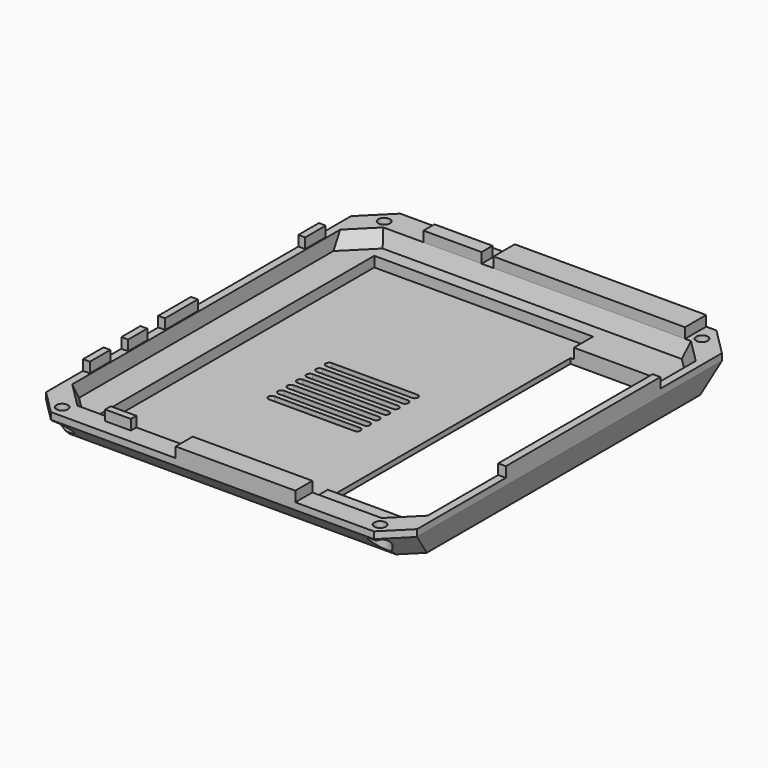
from build123d import *

# Parameters (mm, degrees)
SKETCH089_W            = 90
SKETCH089_H            = 32
EXTRUDE079_DEPTH       = 10
SKETCH082_R            = 2.9
EXTRUDE076_DEPTH       = 10
SKETCH081_R            = 1.7
EXTRUDE075_DEPTH       = 5
SKETCH083_R            = 2
EXTRUDE077_DEPTH       = 10
SKETCH084_W            = 35
SKETCH084_H            = 5
SKETCH085_W            = 38
SKETCH085_H            = 8
SKETCH086_W            = 7
SKETCH086_H            = 5
SKETCH087_W            = 10
SKETCH087_H            = 10
SKETCH080_W            = 104
SKETCH080_H            = 64
SKETCH080_W_2          = 5
SKETCH080_H_2          = 6
SKETCH080_W_3          = 9
SKETCH080_H_3          = 3
EXTRUDE074_DEPTH       = 5
SKETCH088_W            = 7.75
SKETCH088_H            = 56
SKETCH088_W_2          = 4
SKETCH088_H_2          = 17
SKETCH088_W_3          = 6.25
SKETCH088_H_3          = 35
SKETCH088_W_4          = 56.5
SKETCH088_H_4          = 2.25
SKETCH088_W_5          = 2
SKETCH088_H_5          = 7.5
SKETCH088_W_6          = 7.5
SKETCH088_H_6          = 2
SKETCH088_W_7          = 12
SKETCH088_W_8          = 7
EXTRUDE078_DEPTH       = 3
CUT004_ROLL_ANGLE      = 180
CUT004_PLACEMENT_ANGLE = -90


with BuildPart() as extrude079:
    # Sketch089 → Extrude079 (new body)
    with BuildSketch(Plane.XY):
        with Locations((0, -36)):
            Rectangle(SKETCH089_W, SKETCH089_H)
    extrude(amount=EXTRUDE079_DEPTH)


with BuildPart() as loft001:
    # Sketch078 → Loft001 section 0
    with BuildSketch(Plane.XY):
        Polygon((47.5, -52.25), (-50.5, -52.25), (-57.5, -45.25), (-57.5, 44.75), (-50.5, 51.75), (47.5, 51.75), (55, 44.25), (55, -44.75), align=None)
    # Sketch079 → Loft001 section 1
    with BuildSketch(Plane.XY.offset(4.5)):
        Polygon((45, -51.75), (-48, -51.75), (-56, -43.75), (-56, 43.75), (-48, 51.75), (45, 51.75), (53, 43.75), (53, -43.75), align=None)
    loft(ruled=True)


with BuildPart() as extrude076:
    # Sketch082 → Extrude076 (new body)
    with BuildSketch(Plane.XY):
        with Locations((-60, 46.5)):
            Circle(SKETCH082_R)
        with Locations((57.75, 46.5)):
            Circle(SKETCH082_R)
        with Locations((-60, -46.5)):
            Circle(SKETCH082_R)
        with Locations((57.75, -46.5)):
            Circle(SKETCH082_R)
    extrude(amount=EXTRUDE076_DEPTH)


with BuildPart() as extrude076_1:
    # Extrude076 placement: moved
    add(extrude076.part.moved(Location((0, 0, 2))))


with BuildPart() as fusion030:
    # Sketch081 → Extrude075 (new body)
    with BuildSketch(Plane.XY):
        with Locations((-60, 46.5)):
            Circle(SKETCH081_R)
        with Locations((57.75, 46.5)):
            Circle(SKETCH081_R)
        with Locations((-60, -46.5)):
            Circle(SKETCH081_R)
        with Locations((57.75, -46.5)):
            Circle(SKETCH081_R)
    extrude(amount=EXTRUDE075_DEPTH)

    # Fusion030: union Extrude076
    add(extrude076_1.part)


with BuildPart() as extrude077:
    # Sketch083 → Extrude077 (new body)
    with BuildSketch(Plane.XY):
        with Locations((-13.5, -24.3)):
            Circle(SKETCH083_R)
        with Locations((0.5, -24.3)):
            Circle(SKETCH083_R)
        with Locations((14.5, -24.3)):
            Circle(SKETCH083_R)
        with Locations((-27.55, -39.75)):
            Circle(SKETCH083_R)
        with BuildLine():
            ThreePointArc((-7, 21), (-8, 22), (-9, 21))
            Line((-9, 21), (-9, -4))
            ThreePointArc((-9, -4), (-8, -5), (-7, -4))
            Line((-7, 21), (-7, -4))
        make_face()
        with BuildLine():
            ThreePointArc((-3.5, 21), (-4.5, 22), (-5.5, 21))
            Line((-5.5, 21), (-5.5, -4))
            ThreePointArc((-5.5, -4), (-4.5, -5), (-3.5, -4))
            Line((-3.5, 21), (-3.5, -4))
        make_face()
        with BuildLine():
            ThreePointArc((0, 21), (-1, 22), (-2, 21))
            Line((-2, 21), (-2, -4))
            ThreePointArc((-2, -4), (-1, -5), (0, -4))
            Line((0, 21), (0, -4))
        make_face()
        with BuildLine():
            ThreePointArc((3.5, 21), (2.5, 22), (1.5, 21))
            Line((1.5, 21), (1.5, -4))
            ThreePointArc((1.5, -4), (2.5, -5), (3.5, -4))
            Line((3.5, 21), (3.5, -4))
        make_face()
        with BuildLine():
            ThreePointArc((14, 21), (13, 22), (12, 21))
            Line((12, 21), (12, -4))
            ThreePointArc((12, -4), (13, -5), (14, -4))
            Line((14, 21), (14, -4))
        make_face()
        with BuildLine():
            ThreePointArc((7, 21), (6, 22), (5, 21))
            Line((5, 21), (5, -4))
            ThreePointArc((5, -4), (6, -5), (7, -4))
            Line((7, 21), (7, -4))
        make_face()
        with BuildLine():
            ThreePointArc((10.5, 21), (9.5, 22), (8.5, 21))
            Line((8.5, 21), (8.5, -4))
            ThreePointArc((8.5, -4), (9.5, -5), (10.5, -4))
            Line((10.5, 21), (10.5, -4))
        make_face()
    extrude(amount=EXTRUDE077_DEPTH)


with BuildPart() as loft002:
    # Sketch084 → Loft002 section 0
    with BuildSketch(Plane.XY):
        Rectangle(SKETCH084_W, SKETCH084_H)
    # Sketch085 → Loft002 section 1
    with BuildSketch(Plane.XY.offset(3)):
        with Locations((0, -0.5)):
            Rectangle(SKETCH085_W, SKETCH085_H)
    loft(ruled=True)


with BuildPart() as loft002_1:
    # Loft002 placement: moved
    add(loft002.part.moved(Location((0, -24.25, 6))))


with BuildPart() as loft003:
    # Sketch086 → Loft003 section 0
    with BuildSketch(Plane.XY):
        Rectangle(SKETCH086_W, SKETCH086_H)
    # Sketch087 → Loft003 section 1
    with BuildSketch(Plane.XY.offset(3)):
        Rectangle(SKETCH087_W, SKETCH087_H)
    loft(ruled=True)


with BuildPart() as loft003_1:
    # Loft003 placement: moved
    add(loft003.part.moved(Location((-27.5, -39.5, 6))))


with BuildPart() as fusion029:
    # Sketch080 → Extrude074 (new body)
    with BuildSketch(Plane.XY):
        with Locations((0, 11)):
            Rectangle(SKETCH080_W, SKETCH080_H)
        with Locations((21, -36)):
            Rectangle(SKETCH080_W_2, SKETCH080_H_2)
        with Locations((9.5, -47.5)):
            Rectangle(SKETCH080_W_3, SKETCH080_H_3)
    extrude(amount=EXTRUDE074_DEPTH)


with BuildPart() as fusion029_1:
    # Extrude074 placement: moved
    add(fusion029.part.moved(Location((0, 0, 2.5))))

    # Fusion029: union Loft001, Fusion030, Extrude077, Loft002, Loft003
    add(loft001.part)
    add(fusion030.part)
    add(extrude077.part)
    add(loft002_1.part)
    add(loft003_1.part)


with BuildPart() as cut002:
    # Sketch076 → Loft section 0
    with BuildSketch(Plane.XY):
        Polygon((54.25, -54.5), (-57.25, -54.5), (-65.25, -46.5), (-65.25, 46), (-57.25, 54), (54.25, 54), (61.25, 47), (61.25, -47.5), align=None)
    # Sketch090 → Loft section 1
    with BuildSketch(Plane.XY.offset(2)):
        Polygon((54.25, -54.5), (-57.25, -54.5), (-65.25, -46.5), (-65.25, 46), (-57.25, 54), (54.25, 54), (61.25, 47), (61.25, -47.5), align=None)
    # Sketch077 → Loft section 2
    with BuildSketch(Plane.XY.offset(9)):
        Polygon((48.5, -52.75), (-51.5, -52.75), (-56.5, -47.75), (-56.5, 47.75), (-51.5, 52.75), (48.5, 52.75), (53.5, 47.75), (53.5, -47.75), align=None)
    loft(ruled=True)

    # Cut002: cut Fusion029
    add(fusion029_1.part, mode=Mode.SUBTRACT)


with BuildPart() as cut004:
    # Sketch088 → Extrude078 (new body)
    with BuildSketch(Plane.XY):
        with Locations((-61.375, -15.5)):
            Rectangle(SKETCH088_W, SKETCH088_H)
        with Locations((-59.5, 24.5)):
            Rectangle(SKETCH088_W_2, SKETCH088_H_2)
        with Locations((58.125, -7)):
            Rectangle(SKETCH088_W_3, SKETCH088_H_3)
        with Locations((-6.5, -53.375)):
            Rectangle(SKETCH088_W_4, SKETCH088_H_4)
        with Locations((56, 30.75)):
            Rectangle(SKETCH088_W_5, SKETCH088_H_5)
        with Locations((37, 53)):
            Rectangle(SKETCH088_W_6, SKETCH088_H_6)
        with Locations((-41.75, 53)):
            Rectangle(SKETCH088_W_6, SKETCH088_H_6)
        with Locations((7.25, 53)):
            Rectangle(SKETCH088_W_7, SKETCH088_H_6)
        with Locations((23.25, 53)):
            Rectangle(SKETCH088_W_8, SKETCH088_H_6)
    extrude(amount=-EXTRUDE078_DEPTH)

    # Fusion031: union Cut002
    add(cut002.part)


with BuildPart() as cut004_1:
    # Fusion031 placement: moved
    add(cut004.part.moved(Location((0, 0, 27))))


with BuildPart() as cut004_2:
    # Clone001 placement: moved
    add(cut004_1.part.moved(Location((0, 0, -27))))

    # Cut004: cut Extrude079
    add(extrude079.part, mode=Mode.SUBTRACT)


with BuildPart() as cut004_3:
    # Cut004 roll: moved
    add(cut004_2.part.rotate(Axis((0, 0, 0), (1, 0, 0)), CUT004_ROLL_ANGLE))


with BuildPart() as cut004_4:
    # Cut004 placement: moved
    add(cut004_3.part.rotate(Axis((0, 0, 0), (0, 0, 1)), CUT004_PLACEMENT_ANGLE))


solid = cut004_4.part
